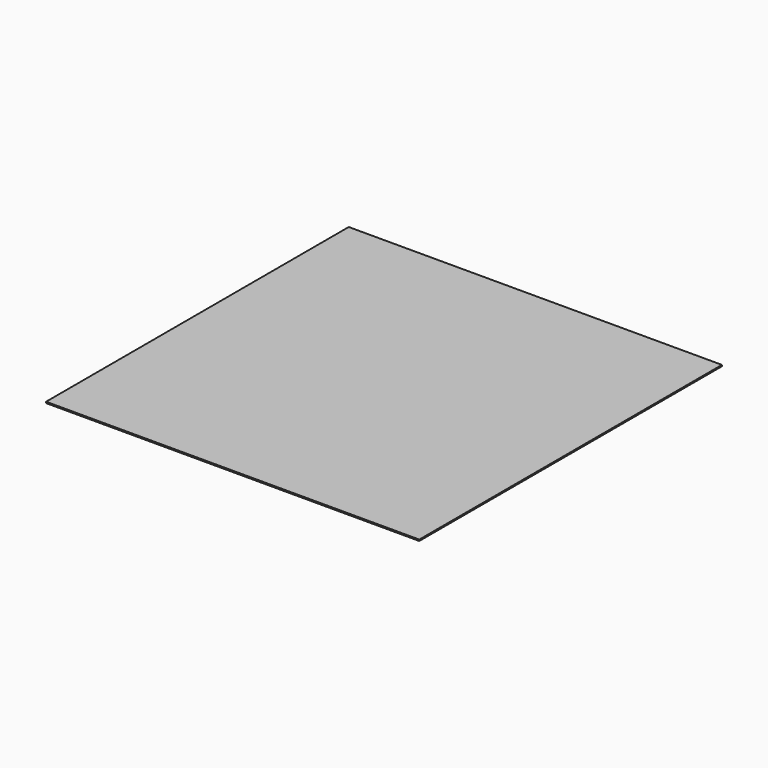
from build123d import *

# Parameters (mm, degrees)
F0_W     = 3176.3504743576
F0_H     = 1583.27783626
F1_DEPTH = 25


with BuildPart() as f1:
    # F0 (on Top) → F1 (new body)
    with BuildSketch(Plane.XY):
        Polygon((-1240.4239177704, 5608.5459141103), (-3651.2049674988, 5608.5459141103), (-3651.2049674988, -1791.4540858897), (3648.7950325012, -1791.4540858897), (3648.7950325012, 5608.5459141103), (1935.9265565872, 5608.5459141103), (1935.9265565872, 4025.2680778503), (-1240.4239177704, 4025.2680778503), align=None)
        with Locations((347.7513194084, 4816.9069959803)):
            Rectangle(F0_W, F0_H)
    extrude(amount=-F1_DEPTH)


solid = f1.part
